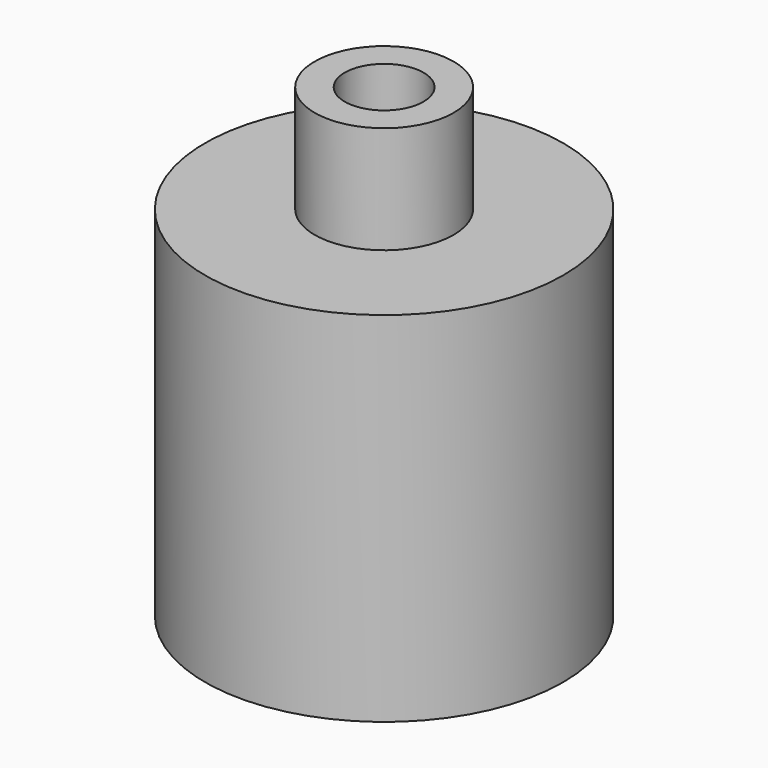
from build123d import *

# Parameters (mm, degrees)
SKETCH283_R     = 2.5
SKETCH283_R_2   = 0.5
PAD192_DEPTH    = 1
SKETCH277_R     = 0.97
SKETCH277_R_2   = 0.55
PAD187_DEPTH    = 1.5
SKETCH309_R     = 2.5
SKETCH309_R_2   = 1.5
PAD214_DEPTH    = 4
CHAMFER006_SIZE = 0.95


with BuildPart() as part:
    # Sketch283 → Pad192 (new body)
    with BuildSketch(Plane.XY):
        Circle(SKETCH283_R)
        Circle(SKETCH283_R_2, mode=Mode.SUBTRACT)
    extrude(amount=PAD192_DEPTH)

    # Sketch277 (on Face4 of Pad192) → Pad187 (join)
    with BuildSketch(Plane.XY.offset(1)):
        Circle(SKETCH277_R)
        Circle(SKETCH277_R_2, mode=Mode.SUBTRACT)
    extrude(amount=PAD187_DEPTH)

    # Sketch309 (on Face2 of Pad187) → Pad214 (join)
    with BuildSketch(Plane(origin=(0, 0, 0), x_dir=(1, 0, 0), z_dir=(0, 0, -1))):
        Circle(SKETCH309_R)
        Circle(SKETCH309_R_2, mode=Mode.SUBTRACT)
    extrude(amount=PAD214_DEPTH)

    # Chamfer006
    chamfer006_edges = [part.edges().sort_by_distance(p)[0] for p in [
        (-1.5, 0, 0),
    ]]
    chamfer(chamfer006_edges, length=CHAMFER006_SIZE)


with BuildPart() as part_1:
    # Body056 placement: moved
    add(part.part.moved(Location((0, 0, -2.2))))


solid = part_1.part
